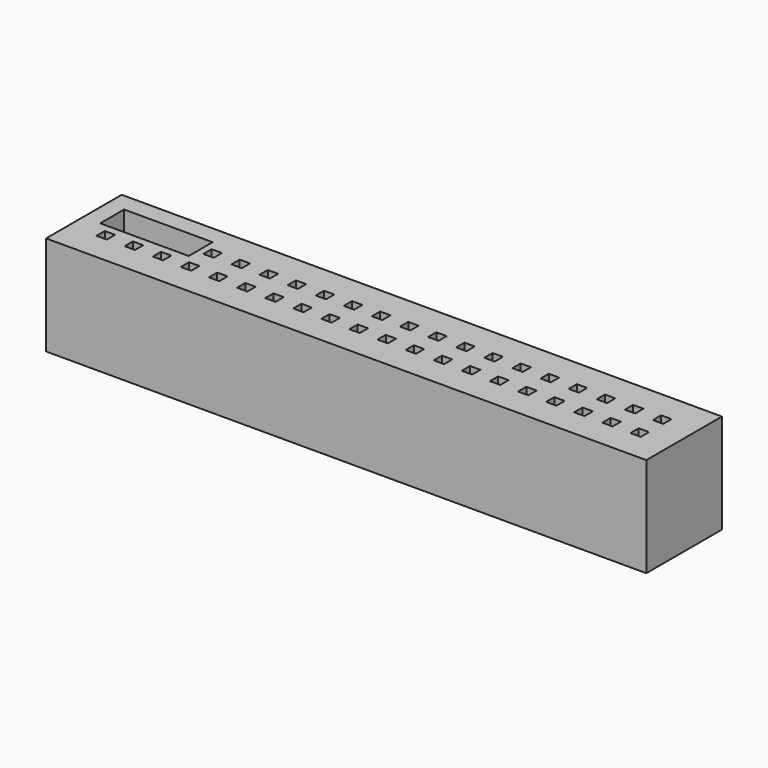
from build123d import *

# Parameters (mm, degrees)
F0_W     = 54.26
F0_H     = 8.54
F0_W_2   = 0.93338
F0_H_2   = 0.93338
F1_DEPTH = 9
F2_W     = 8
F2_H     = 2.7
F3_DEPTH = 25


with BuildPart() as f1:
    # F0 (on Top) → F1 (new body)
    with BuildSketch(Plane.XY):
        with Locations((24.13, 1.27)):
            Rectangle(F0_W, F0_H)
        Rectangle(F0_W_2, F0_H_2, mode=Mode.SUBTRACT)
        with Locations((2.54, 0)):
            Rectangle(F0_W_2, F0_H_2, mode=Mode.SUBTRACT)
        with Locations((5.08, 0)):
            Rectangle(F0_W_2, F0_H_2, mode=Mode.SUBTRACT)
        with Locations((7.62, 0)):
            Rectangle(F0_W_2, F0_H_2, mode=Mode.SUBTRACT)
        with Locations((10.16, 0)):
            Rectangle(F0_W_2, F0_H_2, mode=Mode.SUBTRACT)
        with Locations((12.7, 0)):
            Rectangle(F0_W_2, F0_H_2, mode=Mode.SUBTRACT)
        with Locations((15.24, 0)):
            Rectangle(F0_W_2, F0_H_2, mode=Mode.SUBTRACT)
        with Locations((17.78, 0)):
            Rectangle(F0_W_2, F0_H_2, mode=Mode.SUBTRACT)
        with Locations((20.32, 0)):
            Rectangle(F0_W_2, F0_H_2, mode=Mode.SUBTRACT)
        with Locations((22.86, 0)):
            Rectangle(F0_W_2, F0_H_2, mode=Mode.SUBTRACT)
        with Locations((25.4, 0)):
            Rectangle(F0_W_2, F0_H_2, mode=Mode.SUBTRACT)
        with Locations((27.94, 0)):
            Rectangle(F0_W_2, F0_H_2, mode=Mode.SUBTRACT)
        with Locations((30.48, 0)):
            Rectangle(F0_W_2, F0_H_2, mode=Mode.SUBTRACT)
        with Locations((33.02, 0)):
            Rectangle(F0_W_2, F0_H_2, mode=Mode.SUBTRACT)
        with Locations((35.56, 0)):
            Rectangle(F0_W_2, F0_H_2, mode=Mode.SUBTRACT)
        with Locations((38.1, 0)):
            Rectangle(F0_W_2, F0_H_2, mode=Mode.SUBTRACT)
        with Locations((40.64, 0)):
            Rectangle(F0_W_2, F0_H_2, mode=Mode.SUBTRACT)
        with Locations((43.18, 0)):
            Rectangle(F0_W_2, F0_H_2, mode=Mode.SUBTRACT)
        with Locations((45.72, 0)):
            Rectangle(F0_W_2, F0_H_2, mode=Mode.SUBTRACT)
        with Locations((48.26, 0)):
            Rectangle(F0_W_2, F0_H_2, mode=Mode.SUBTRACT)
        with Locations((0, 2.54)):
            Rectangle(F0_W_2, F0_H_2, mode=Mode.SUBTRACT)
        with Locations((2.54, 2.54)):
            Rectangle(F0_W_2, F0_H_2, mode=Mode.SUBTRACT)
        with Locations((5.08, 2.54)):
            Rectangle(F0_W_2, F0_H_2, mode=Mode.SUBTRACT)
        with Locations((7.62, 2.54)):
            Rectangle(F0_W_2, F0_H_2, mode=Mode.SUBTRACT)
        with Locations((10.16, 2.54)):
            Rectangle(F0_W_2, F0_H_2, mode=Mode.SUBTRACT)
        with Locations((12.7, 2.54)):
            Rectangle(F0_W_2, F0_H_2, mode=Mode.SUBTRACT)
        with Locations((15.24, 2.54)):
            Rectangle(F0_W_2, F0_H_2, mode=Mode.SUBTRACT)
        with Locations((17.78, 2.54)):
            Rectangle(F0_W_2, F0_H_2, mode=Mode.SUBTRACT)
        with Locations((20.32, 2.54)):
            Rectangle(F0_W_2, F0_H_2, mode=Mode.SUBTRACT)
        with Locations((22.86, 2.54)):
            Rectangle(F0_W_2, F0_H_2, mode=Mode.SUBTRACT)
        with Locations((25.4, 2.54)):
            Rectangle(F0_W_2, F0_H_2, mode=Mode.SUBTRACT)
        with Locations((27.94, 2.54)):
            Rectangle(F0_W_2, F0_H_2, mode=Mode.SUBTRACT)
        with Locations((30.48, 2.54)):
            Rectangle(F0_W_2, F0_H_2, mode=Mode.SUBTRACT)
        with Locations((33.02, 2.54)):
            Rectangle(F0_W_2, F0_H_2, mode=Mode.SUBTRACT)
        with Locations((35.56, 2.54)):
            Rectangle(F0_W_2, F0_H_2, mode=Mode.SUBTRACT)
        with Locations((38.1, 2.54)):
            Rectangle(F0_W_2, F0_H_2, mode=Mode.SUBTRACT)
        with Locations((40.64, 2.54)):
            Rectangle(F0_W_2, F0_H_2, mode=Mode.SUBTRACT)
        with Locations((43.18, 2.54)):
            Rectangle(F0_W_2, F0_H_2, mode=Mode.SUBTRACT)
        with Locations((45.72, 2.54)):
            Rectangle(F0_W_2, F0_H_2, mode=Mode.SUBTRACT)
        with Locations((48.26, 2.54)):
            Rectangle(F0_W_2, F0_H_2, mode=Mode.SUBTRACT)
    extrude(amount=F1_DEPTH)

    # F2 (on Top) → F3 (cut)
    with BuildSketch(Plane.XY):
        with Locations((2.54, 2.54)):
            Rectangle(F2_W, F2_H)
    extrude(amount=F3_DEPTH, mode=Mode.SUBTRACT)


solid = f1.part
